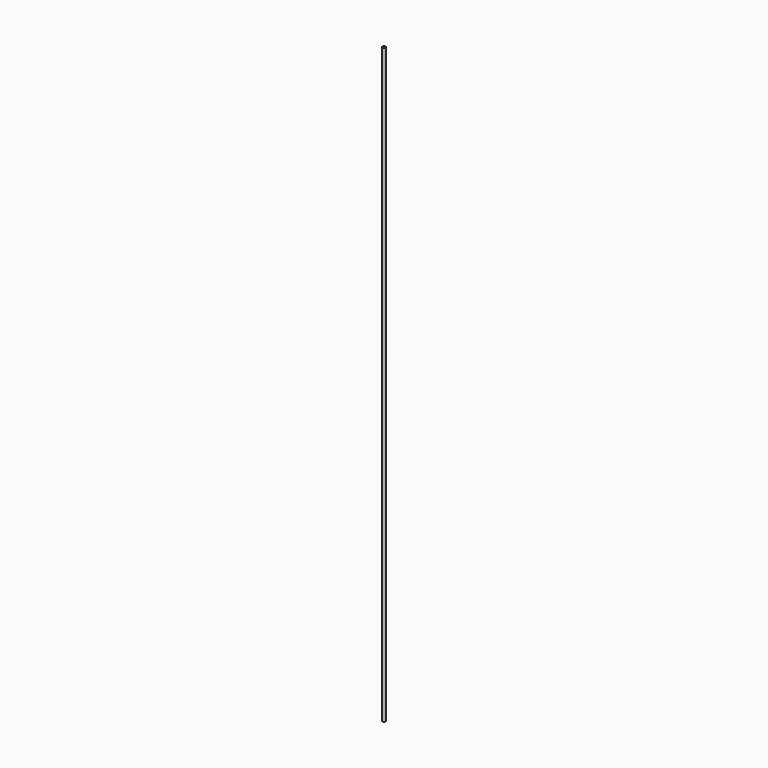
from build123d import *

# Parameters (mm, degrees)
F0_W = 5
F0_H = 2000


with BuildPart() as f1:
    # F0 (on Front) → F1 (revolve)
    with BuildSketch(Plane.XZ):
        with Locations((2.5, -324.50333)):
            Rectangle(F0_W, F0_H)
        with Locations((2.5, -324.50333)):
            Rectangle(F0_W, F0_H)
    revolve(axis=Axis((0, 0, -324.50333), (0, 0, -1)))


solid = f1.part
